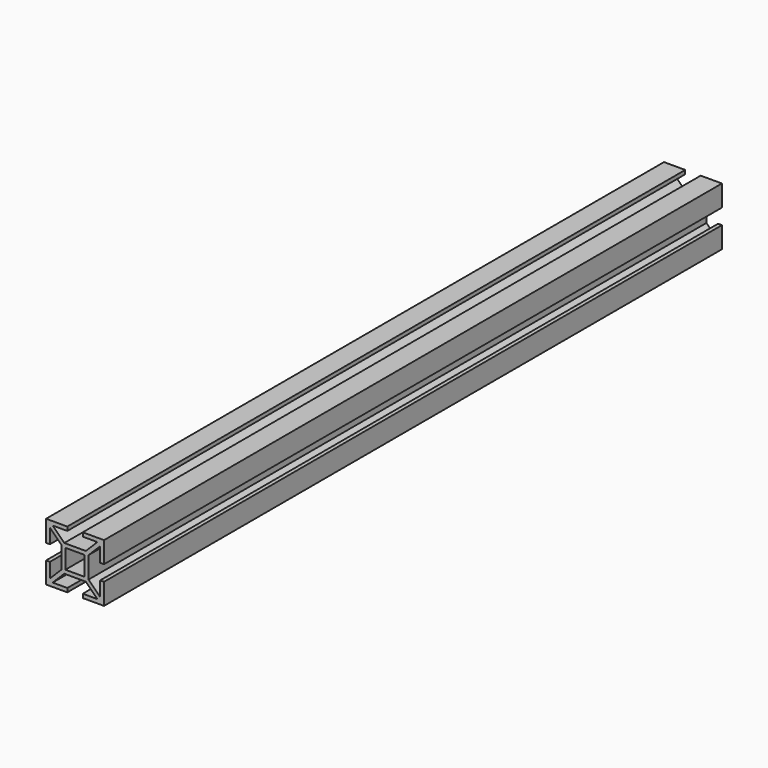
from build123d import *

# Parameters (mm, degrees)
F0_W     = 10
F0_H     = 10
F1_DEPTH = 200


with BuildPart() as f1:
    # F0 (on Front) → F1 (new body, symmetric)
    with BuildSketch(Plane.XZ):
        Polygon((7, -5.585787), (7, -7), (5.585787, -7), (11.585786, -13), (4, -13), (4, -15), (15, -15), (15, -4), (13, -4), (13, -11.585786), align=None)
        Polygon((5.585787, -7), (7, -7), (7, -5.585787), (7, 5.585787), (7, 7), (5.585787, 7), (-5.585787, 7), (-7, 7), (-7, 5.585787), (-7, -5.585787), (-7, -7), (-5.585787, -7), align=None)
        Rectangle(F0_W, F0_H, mode=Mode.SUBTRACT)
        Polygon((-11.585786, -13), (-5.585787, -7), (-7, -7), (-7, -5.585787), (-13, -11.585786), (-13, -4), (-15, -4), (-15, -15), (-4, -15), (-4, -13), align=None)
        Polygon((7, 7), (7, 5.585787), (13, 11.585786), (13, 4), (15, 4), (15, 15), (4, 15), (4, 13), (11.585786, 13), (5.585787, 7), align=None)
        Polygon((-13, 11.585786), (-7, 5.585787), (-7, 7), (-5.585787, 7), (-11.585786, 13), (-4, 13), (-4, 15), (-15, 15), (-15, 4), (-13, 4), align=None)
    extrude(amount=F1_DEPTH, both=True)


solid = f1.part
